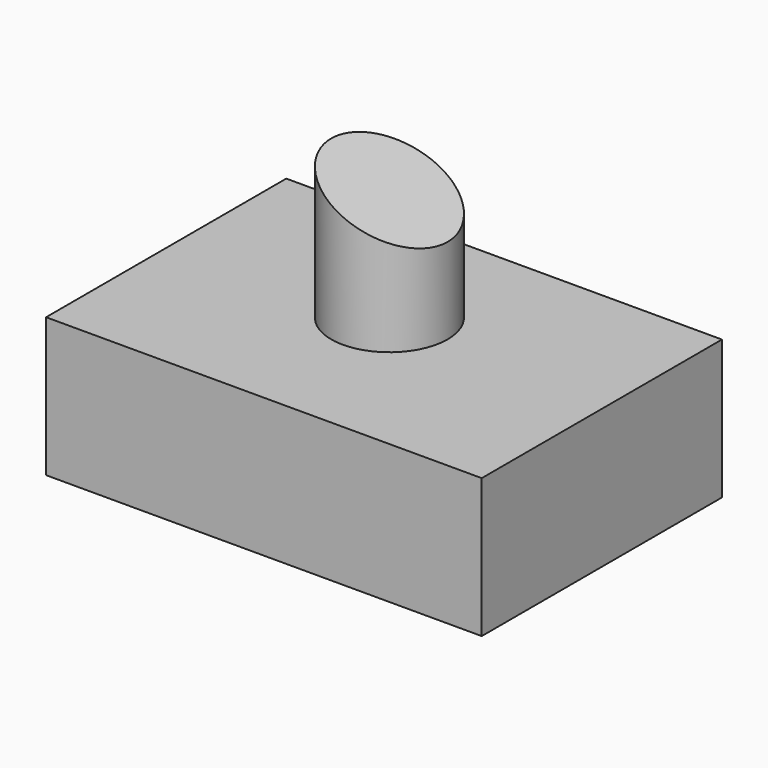
from build123d import *

# Parameters (mm, degrees)
F0_W          = 79.5706696808
F0_H          = 54.8370443285
F1_DEPTH      = 25.4
F2_R          = 10.632312462
F3_DEPTH      = 25.4
F5_DEPTH      = 27.178
F5_DEPTH_BACK = 32.766


with BuildPart() as f1:
    # F0 (on Top) → F1 (new body)
    with BuildSketch(Plane.XY):
        with Locations((-11.0720153898, 5.5851843208)):
            Rectangle(F0_W, F0_H)
    extrude(amount=F1_DEPTH)

    # F2 (on face) → F3 (join)
    with BuildSketch(Plane.XY.offset(25.4)):
        with Locations((-12.4944150448, 8.600234054)):
            Circle(F2_R)
    extrude(amount=F3_DEPTH)

    # F4 (on Front) → F5 (cut, two sides)
    with BuildSketch(Plane.XZ) as f5_sk:
        Polygon((-1.411169651, 50.8574359119), (-23.2553649694, 50.8574359119), (-1.411169651, 40.8576503396), align=None)
    extrude(amount=-F5_DEPTH, mode=Mode.SUBTRACT)
    extrude(f5_sk.sketch, amount=F5_DEPTH_BACK, mode=Mode.SUBTRACT)


solid = f1.part
